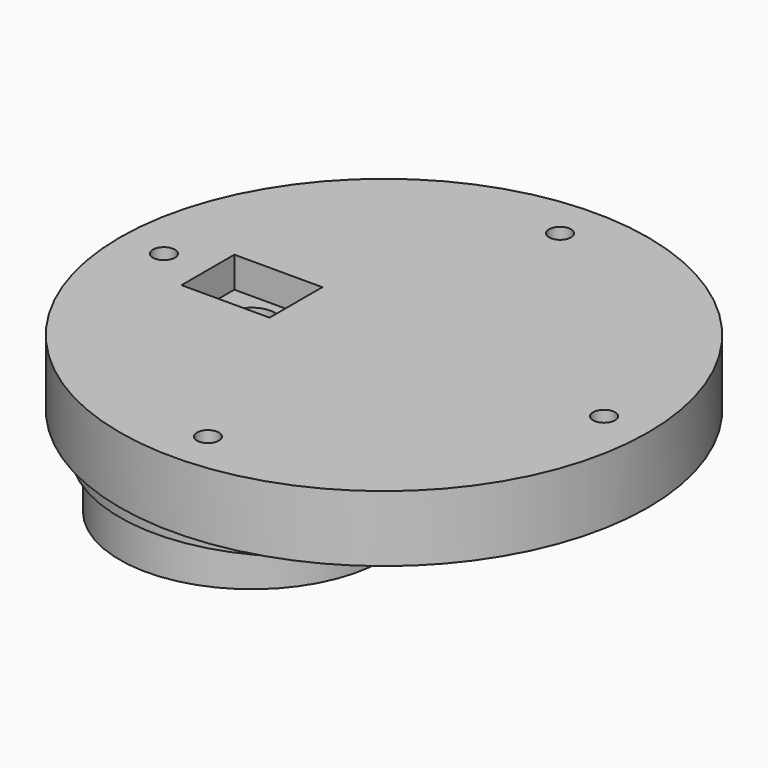
from build123d import *

# Parameters (mm, degrees)
F0_R      = 76.2
F1_DEPTH  = 19.05
F2_W      = 25.4
F2_H      = 19.05
F3_DEPTH  = 8.89
F4_R      = 6.604
F5_DEPTH  = 10.16
F6_R      = 3.175
F7_DEPTH  = 19.05
F8_R      = 3.175
F8_R_2    = 19.05
F9_DEPTH  = 19.05
F10_R     = 3.175
F10_R_2   = 19.05
F11_DEPTH = 19.05


with BuildPart() as f1:
    # F0 (on Top) → F1 (new body)
    with BuildSketch(Plane.XY):
        Circle(F0_R)
    extrude(amount=F1_DEPTH)

    # F2 (on face) → F3 (cut)
    with BuildSketch(Plane.XY.offset(19.05)):
        with Locations((-38.1, 0)):
            Rectangle(F2_W, F2_H)
    extrude(amount=-F3_DEPTH, mode=Mode.SUBTRACT)

    # F4 (on face) → F5 (cut)
    with BuildSketch(Plane(origin=(0, 0, 0), x_dir=(1, 0, 0), z_dir=(0, 0, -1))):
        with Locations((-38.1, 0)):
            Circle(F4_R)
    extrude(amount=-F5_DEPTH, mode=Mode.SUBTRACT)

    # F6 (on face) → F7 (cut)
    with BuildSketch(Plane(origin=(0, 0, 0), x_dir=(1, 0, 0), z_dir=(0, 0, -1))):
        with Locations((0, 63.5)):
            Circle(F6_R)
        with Locations((63.5, 0)):
            Circle(F6_R)
        with Locations((0, -63.5)):
            Circle(F6_R)
        with Locations((-63.5, 0)):
            Circle(F6_R)
    extrude(amount=-F7_DEPTH, mode=Mode.SUBTRACT)

    # F8 (on face) → F9 (join)
    with BuildSketch(Plane(origin=(0, 0, 0), x_dir=(1, 0, 0), z_dir=(0, 0, -1))):
        with BuildLine():
            ThreePointArc((-76.2, -9.238e-07), (-25.3999995381, -50.8), (25.4, 0))
            ThreePointArc((25.4, 0), (-25.4000004619, 50.8), (-76.2, -9.238e-07))
        make_face()
        with Locations((-63.5, 0)):
            Circle(F8_R, mode=Mode.SUBTRACT)
        with Locations((-38.1, 0)):
            Circle(F8_R_2, mode=Mode.SUBTRACT)
    extrude(amount=F9_DEPTH)

    # F10 (on face) → F11 (join)
    with BuildSketch(Plane(origin=(0, 0, -19.05), x_dir=(1, 0, 0), z_dir=(0, 0, -1))):
        with BuildLine():
            ThreePointArc((-76.2, -1.0101e-06), (-38.099999495, -38.1), (0, 0))
            ThreePointArc((0, 0), (-38.100000505, 38.1), (-76.2, -1.0101e-06))
        make_face()
        with Locations((-63.5, 0)):
            Circle(F10_R, mode=Mode.SUBTRACT)
        with Locations((-38.1, 0)):
            Circle(F10_R_2, mode=Mode.SUBTRACT)
    extrude(amount=F11_DEPTH)


solid = f1.part
